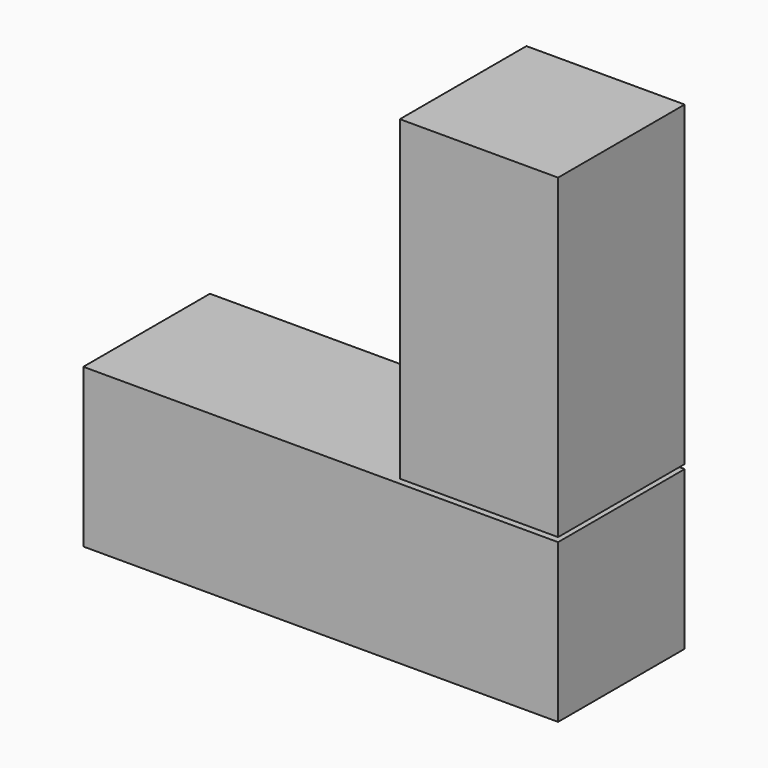
from build123d import *

# Parameters (mm, degrees)
F1_W     = 25.4
F1_H     = 25.4
F0_W     = 25.4
F0_H     = 25.4
F2_DEPTH = 25.4


with BuildPart() as f2:
    # F1 (on Front) + F0 (on Front) → F2 (new body)
    with BuildSketch(Plane.XZ):
        with Locations((12.7, 64.209499)):
            Rectangle(F1_W, F1_H)
        with Locations((12.7, 38.809499)):
            Rectangle(F1_W, F1_H)
    with BuildSketch(Plane.XZ):
        with Locations((12.7, 12.7)):
            Rectangle(F0_W, F0_H)
        with Locations((-12.7, 12.7)):
            Rectangle(F0_W, F0_H)
        with Locations((-38.1, 12.7)):
            Rectangle(F0_W, F0_H)
    extrude(amount=F2_DEPTH)


solid = f2.part
